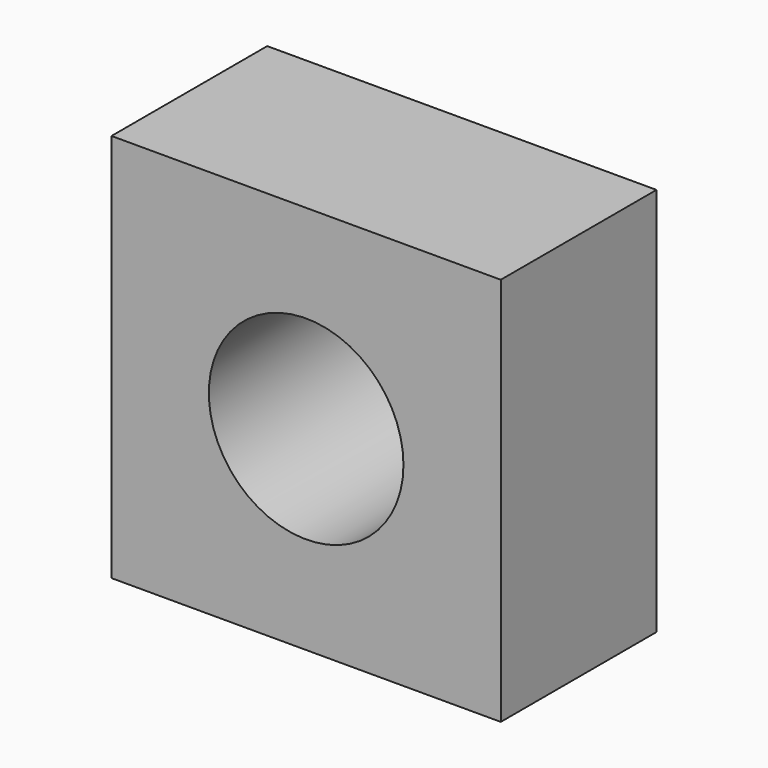
from build123d import *

# Parameters (mm, degrees)
F0_W     = 20
F0_H     = 20
F1_DEPTH = 10
F2_R     = 5
F3_DEPTH = 10.001


with BuildPart() as f1:
    # F0 (on Front) → F1 (new body)
    with BuildSketch(Plane.XZ):
        Rectangle(F0_W, F0_H)
    extrude(amount=F1_DEPTH)

    # F2 (on face) → F3 (cut, through all)
    with BuildSketch(Plane.XZ.offset(10)):
        Circle(F2_R)
    extrude(amount=-F3_DEPTH, mode=Mode.SUBTRACT)


solid = f1.part
